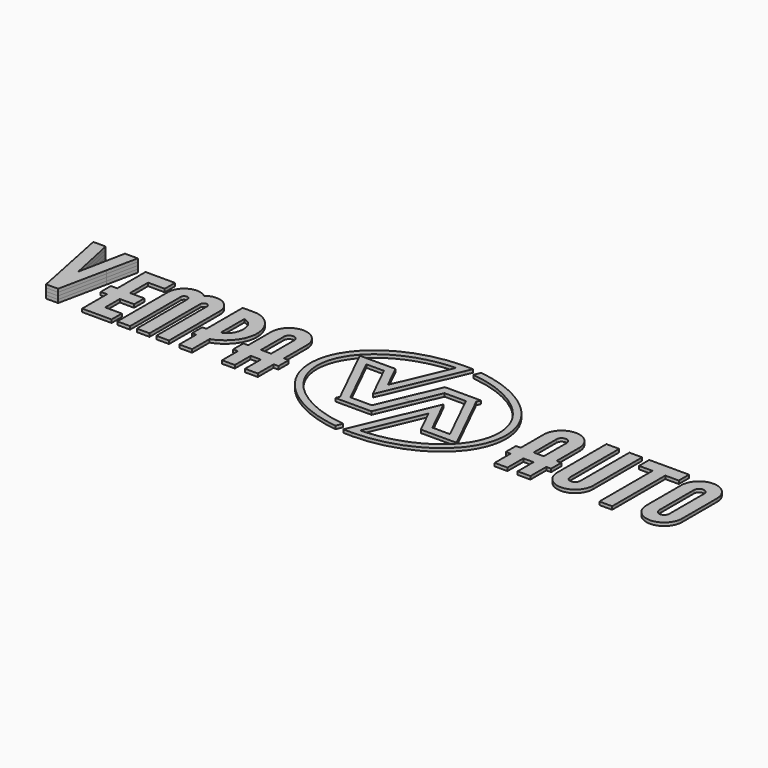
from build123d import *

# Parameters (mm, degrees)
F2_DEPTH  = 10
F3_DEPTH  = 10
F4_R      = 2.875
F5_DEPTH  = 10
F6_DEPTH  = 10
F8_DEPTH  = 10
F10_DEPTH = 10


with BuildPart() as f2:
    # F1 (on Top) → F2 (new body)
    with BuildSketch(Plane.XY):
        Polygon((-871.9276483553, 126.2843328033), (-909.6434648347, 126.2843328033), (-912.4845839702, 126.2843328033), (-942.3458830625, -21.8372228415), (-973.6101645308, 126.2843328033), (-1012.7642730078, 126.2843328033), (-962.1864434677, -123.7156671967), (-924.1331745426, -123.7452153663), (-892.265362448, 28.858947559), align=None)
    extrude(amount=F2_DEPTH)

    # F4 (on face) → F5 (intersect, through all)
    with BuildSketch(Plane.XY.offset(10)):
        Polygon((-892.265362448, 28.858947559), (-871.9276483553, 126.2843328033), (-912.4845839702, 126.2843328033), (-942.3458830625, -21.8372228415), (-973.6101645308, 126.2843328033), (-1012.7642730078, 126.2843328033), (-962.1864434677, -123.7156671967), (-924.1331745426, -123.7452153663), align=None)
        with Locations((-943.1209842713, -73.7304563551)):
            Circle(F4_R, mode=Mode.SUBTRACT)
        with Locations((-982.8611430602, 77.3622298186)):
            Circle(F4_R, mode=Mode.SUBTRACT)
        with Locations((-902.4234528526, 77.3394042513)):
            Circle(F4_R, mode=Mode.SUBTRACT)
    extrude(amount=-F5_DEPTH, mode=Mode.INTERSECT)


with BuildPart() as f2b:
    # F1 (on Top) → F2, piece 2 (new body)
    with BuildSketch(Plane.XY):
        Polygon((-806.9672375399, 14.303325146), (-806.9672375399, 50.9545219552), (-806.9672375399, 85.840435255), (-754.2754631449, 85.840435255), (-754.2754631449, 126.2843328033), (-847.3929545845, 126.2843328033), (-847.3929545845, 14.303325146), (-867.3995845235, 14.303325146), (-867.3995845235, -26.1284497144), (-847.3929545845, -26.1284497144), (-847.3929545845, -124.4851156467), (-754.2754631449, -124.4851156467), (-754.2754631449, -84.0465208923), (-806.9672375399, -84.0465208923), (-806.9672375399, -26.1284497144), (-761.5972173308, -26.1284497144), (-761.5972173308, 14.303325146), align=None)
    extrude(amount=F2_DEPTH)


with BuildPart() as f2c:
    # F1 (on Top) → F2, piece 3 (new body)
    with BuildSketch(Plane.XY):
        with BuildLine():
            add(Edge.make_bspline(
                [(-572.9711506984, 76.7791565073), (-572.9711506984, 104.9176014978), (-595.8531474245, 127.7950575082), (-624.0037151028, 127.7950575082)],
                knots=[0, 0, 0, 0, 1, 1, 1, 1], degree=3))
            add(Edge.make_bspline(
                [(-624.0037151028, 127.7950575082), (-635.1090638994, 127.7950575082), (-645.8932108615, 124.0765958838), (-654.8014459671, 117.2351802716)],
                knots=[0, 0, 0, 0, 1, 1, 1, 1], degree=3))
            add(Edge.make_bspline(
                [(-654.8014459671, 117.2351802716), (-663.7096775445, 124.0765958838), (-674.4938068659, 127.7950575082), (-685.615840235, 127.7950575082)],
                knots=[0, 0, 0, 0, 1, 1, 1, 1], degree=3))
            add(Edge.make_bspline(
                [(-685.615840235, 127.7950575082), (-713.7361011937, 127.7950575082), (-736.6196114917, 104.9176014978), (-736.6196114917, 76.7791565073)],
                knots=[0, 0, 0, 0, 1, 1, 1, 1], degree=3))
            Line((-736.6196114917, 76.7791565073), (-736.6196114917, -123.7274864645))
            Line((-736.6196114917, -123.7274864645), (-696.1863195312, -123.7274864645))
            Line((-696.1863195312, -123.7274864645), (-696.1863195312, 76.7791565073))
            add(Edge.make_bspline(
                [(-696.1863195312, 76.7791565073), (-696.1863195312, 82.6083770765), (-691.4329381163, 87.3496358035), (-685.615840235, 87.3496358035)],
                knots=[0, 0, 0, 0, 1, 1, 1, 1], degree=3))
            add(Edge.make_bspline(
                [(-685.615840235, 87.3496358035), (-679.7608642463, 87.3496358035), (-675.0256633351, 82.6083770765), (-675.0256633351, 76.7791565073)],
                knots=[0, 0, 0, 0, 1, 1, 1, 1], degree=3))
            Line((-675.0256633351, 76.7791565073), (-675.0256633351, -123.7274864645))
            Line((-675.0256633351, -123.7274864645), (-634.5757150272, -123.7274864645))
            Line((-634.5757150272, -123.7274864645), (-634.5757150272, 76.7791565073))
            add(Edge.make_bspline(
                [(-634.5757150272, 76.7791565073), (-634.5757150272, 82.6083770765), (-629.8283914281, 87.3496358035), (-624.0037151028, 87.3496358035)],
                knots=[0, 0, 0, 0, 1, 1, 1, 1], degree=3))
            add(Edge.make_bspline(
                [(-624.0037151028, 87.3496358035), (-618.1563175581, 87.3496358035), (-613.4029255588, 82.6083770765), (-613.4029255588, 76.7791565073)],
                knots=[0, 0, 0, 0, 1, 1, 1, 1], degree=3))
            Line((-613.4029255588, 76.7791565073), (-613.4029255588, -123.7274864645))
            Line((-613.4029255588, -123.7274864645), (-572.9711506984, -123.7274864645))
            Line((-572.9711506984, -123.7274864645), (-572.9711506984, 76.7791565073))
        make_face()
    extrude(amount=F2_DEPTH)


with BuildPart() as f2d:
    # F1 (on Top) → F2, piece 4 (new body)
    with BuildSketch(Plane.XY):
        with BuildLine():
            add(Edge.make_bspline(
                [(-426.3163697227, 37.2156250636), (-426.1860402437, 40.7264909505), (-426.2799946028, 44.2176592337), (-426.5815446994, 47.7103410888)],
                knots=[0, 0, 0, 0, 1, 1, 1, 1], degree=3))
            add(Edge.make_bspline(
                [(-426.5815446994, 47.7103410888), (-427.4164436682, 57.6368325813), (-429.8726992172, 67.4557405111), (-433.6138679485, 76.7018796644)],
                knots=[0, 0, 0, 0, 1, 1, 1, 1], degree=3))
            add(Edge.make_bspline(
                [(-433.6138679485, 76.7018796644), (-445.0253181419, 104.9176014978), (-473.3365220189, 125.6630768034), (-500.9188475239, 126.0600736622)],
                knots=[0, 0, 0, 0, 1, 1, 1, 1], degree=3))
            add(Edge.make_bspline(
                [(-500.9188475239, 126.0600736622), (-502.5295844036, 126.0843190379), (-504.1630425028, 126.0843190379), (-505.7661938823, 126.0903803819)],
                knots=[0, 0, 0, 0, 1, 1, 1, 1], degree=3))
            add(Edge.make_bspline(
                [(-505.7661938823, 126.0903803819), (-505.7722270011, 126.1494767211), (-505.7904322018, 126.2025081884), (-505.8025337208, 126.2616045276)],
                knots=[0, 0, 0, 0, 1, 1, 1, 1], degree=3))
            Line((-505.8025337208, 126.2616045276), (-515.1473160594, 126.2507788984))
            Line((-515.1473160594, 126.2507788984), (-521.4991564994, 126.2434204958))
            Line((-521.4991564994, 126.2434204958), (-539.9065901034, 126.2252399922))
            Line((-539.9065901034, 126.2252399922), (-539.9065901034, -16.9247399687))
            add(Edge.make_bspline(
                [(-539.9065901034, -16.9247399687), (-542.6295024478, -17.0671744949), (-545.335761973, -17.1565740257), (-548.0101976784, -17.209609021)],
                knots=[0, 0, 0, 0, 1, 1, 1, 1], degree=3))
            Line((-548.0101976784, -17.209609021), (-553.0121118353, -17.3156790117))
            Line((-553.0121118353, -17.3156790117), (-553.0121118353, -57.7368482843))
            Line((-553.0121118353, -57.7368482843), (-547.8086703411, -57.6307818218))
            add(Edge.make_bspline(
                [(-547.8086703411, -57.6307818218), (-545.1751610557, -57.61259779), (-542.5355480887, -57.5595627946), (-539.9065901034, -57.4944051114)],
                knots=[0, 0, 0, 0, 1, 1, 1, 1], degree=3))
            Line((-539.9065901034, -57.4944051114), (-539.9065901034, -124.4851156467))
            Line((-539.9065901034, -124.4851156467), (-499.4687468428, -124.4851156467))
            Line((-499.4687468428, -124.4851156467), (-499.4687468428, -54.7184436591))
            add(Edge.make_bspline(
                [(-499.4687468428, -54.7184436591), (-494.3138172689, -53.3622832246), (-489.3119383934, -51.4272926695), (-484.7009773921, -49.046810976)],
                knots=[0, 0, 0, 0, 1, 1, 1, 1], degree=3))
            add(Edge.make_bspline(
                [(-484.7009773921, -49.046810976), (-467.7133730309, -40.2870717405), (-452.2652371285, -26.5133274135), (-441.8357034835, -10.4560793678)],
                knots=[0, 0, 0, 0, 1, 1, 1, 1], degree=3))
            add(Edge.make_bspline(
                [(-441.8357034835, -10.4560793678), (-438.8824389008, -5.9163515062), (-436.1595265564, -1.020532037), (-434.0396791239, 3.9692276788)],
                knots=[0, 0, 0, 0, 1, 1, 1, 1], degree=3))
            add(Edge.make_bspline(
                [(-434.0396791239, 3.9692276788), (-429.583285921, 14.4866719797), (-426.6648793582, 25.757204747), (-426.3163697227, 37.2156250636)],
                knots=[0, 0, 0, 0, 1, 1, 1, 1], degree=3))
        make_face()
        with BuildLine():
            add(Edge.make_bspline(
                [(-470.6666023322, 59.1520980019), (-467.2345339165, 50.6757142468), (-466.7011850442, 41.6250446151), (-467.4769876738, 32.6046781749)],
                knots=[0, 0, 0, 0, 1, 1, 1, 1], degree=3))
            add(Edge.make_bspline(
                [(-467.4769876738, 32.6046781749), (-467.8254973093, 28.6392361899), (-468.5058637611, 24.7025802965), (-469.6013864065, 20.8795693095)],
                knots=[0, 0, 0, 0, 1, 1, 1, 1], degree=3))
            add(Edge.make_bspline(
                [(-469.6013864065, 20.8795693095), (-470.6378127126, 17.2399086844), (-472.0227839356, 13.7063109937), (-473.8092574518, 10.3787954686)],
                knots=[0, 0, 0, 0, 1, 1, 1, 1], degree=3))
            add(Edge.make_bspline(
                [(-473.8092574518, 10.3787954686), (-476.7928287541, 4.8738426873), (-481.208295537, -0.0386437137), (-486.1510780732, -3.8268002089)],
                knots=[0, 0, 0, 0, 1, 1, 1, 1], degree=3))
            add(Edge.make_bspline(
                [(-486.1510780732, -3.8268002089), (-488.2527555864, -5.4299515884), (-490.4771770784, -6.9103625173), (-492.7743135288, -8.2180357286)],
                knots=[0, 0, 0, 0, 1, 1, 1, 1], degree=3))
            add(Edge.make_bspline(
                [(-492.7743135288, -8.2180357286), (-492.8637165878, -8.254400264), (-493.0106988859, -8.3301635351), (-493.2182946235, -8.419566594)],
                knots=[0, 0, 0, 0, 1, 1, 1, 1], degree=3))
            Line((-493.2182946235, -8.419566594), (-499.4687468428, -10.8227730351))
            Line((-499.4687468428, -10.8227730351), (-499.4687468428, -7.1528056903))
            Line((-499.4687468428, -7.1528056903), (-499.4687468428, 82.0462138877))
            add(Edge.make_bspline(
                [(-499.4687468428, 82.0462138877), (-488.0694334498, 80.856733355), (-475.4669538704, 71.048431013), (-470.6666023322, 59.1520980019)],
                knots=[0, 0, 0, 0, 1, 1, 1, 1], degree=3))
        make_face(mode=Mode.SUBTRACT)
    extrude(amount=F2_DEPTH)


with BuildPart() as f2e:
    # F1 (on Top) → F2, piece 5 (new body)
    with BuildSketch(Plane.XY):
        with BuildLine():
            Line((-276.262861251, -21.2038441537), (-291.4094117754, -21.2038441537))
            Line((-291.4094117754, -21.2038441537), (-291.4094117754, 69.7119681822))
            add(Edge.make_bspline(
                [(-291.4094117754, 69.7119681822), (-291.4094117754, 100.8991245175), (-316.7794878702, 126.2843328033), (-347.9666195086, 126.2843328033)],
                knots=[0, 0, 0, 0, 1, 1, 1, 1], degree=3))
            add(Edge.make_bspline(
                [(-347.9666195086, 126.2843328033), (-379.1537864284, 126.2843328033), (-404.528378542, 100.8991245175), (-404.528378542, 69.7119681822)],
                knots=[0, 0, 0, 0, 1, 1, 1, 1], degree=3))
            Line((-404.528378542, 69.7119681822), (-404.528378542, -21.2038441537))
            Line((-404.528378542, -21.2038441537), (-419.681032748, -21.2038441537))
            Line((-419.681032748, -21.2038441537), (-419.681032748, -61.6250134263))
            Line((-419.681032748, -61.6250134263), (-404.528378542, -61.6250134263))
            Line((-404.528378542, -61.6250134263), (-404.528378542, -124.4851156467))
            Line((-404.528378542, -124.4851156467), (-364.0829850624, -124.4851156467))
            Line((-364.0829850624, -124.4851156467), (-364.0829850624, -61.6250134263))
            Line((-364.0829850624, -61.6250134263), (-331.8427037359, -61.6250134263))
            Line((-331.8427037359, -61.6250134263), (-331.8427037359, -124.4851156467))
            Line((-331.8427037359, -124.4851156467), (-291.4094117754, -124.4851156467))
            Line((-291.4094117754, -124.4851156467), (-291.4094117754, -61.6250134263))
            Line((-291.4094117754, -61.6250134263), (-276.262861251, -61.6250134263))
            Line((-276.262861251, -61.6250134263), (-276.262861251, -21.2038441537))
        make_face()
        with BuildLine():
            Line((-331.8427037359, 69.7119681822), (-331.8427037359, -21.2038441537))
            Line((-331.8427037359, -21.2038441537), (-364.0829850624, -21.2038441537))
            Line((-364.0829850624, -21.2038441537), (-364.0829850624, 69.7119681822))
            add(Edge.make_bspline(
                [(-364.0829850624, 69.7119681822), (-364.0829850624, 78.6141419438), (-356.8566846949, 85.840435255), (-347.9666195086, 85.840435255)],
                knots=[0, 0, 0, 0, 1, 1, 1, 1], degree=3))
            add(Edge.make_bspline(
                [(-347.9666195086, 85.840435255), (-339.0750725036, 85.840435255), (-331.8427037359, 78.6141419438), (-331.8427037359, 69.7119681822)],
                knots=[0, 0, 0, 0, 1, 1, 1, 1], degree=3))
        make_face(mode=Mode.SUBTRACT)
    extrude(amount=F2_DEPTH)


with BuildPart() as f2f:
    # F1 (on Top) → F2, piece 6 (new body)
    with BuildSketch(Plane.XY):
        with BuildLine():
            Line((68.305066043, -3.4298033501), (35.0525967298, -81.424509814))
            Line((35.0525967298, -81.424509814), (-32.702397059, -81.424509814))
            Line((-32.702397059, -81.424509814), (-112.7280136109, 81.4491997354))
            Line((-112.7280136109, 81.4491997354), (-56.9708821082, 81.4491997354))
            Line((-56.9708821082, 81.4491997354), (-0.7394275097, -32.9956242742))
            Line((-0.7394275097, -32.9956242742), (100.5937887271, 204.6355754205))
            Line((100.5937887271, 204.6355754205), (109.5308134523, 225.588632351))
            add(Edge.make_bspline(
                [(109.5308134523, 225.588632351), (101.3923478574, 226.055334665), (93.1644792036, 226.3629531618), (84.8608261099, 226.3629531618)],
                knots=[0, 0, 0, 0, 1, 1, 1, 1], degree=3))
            add(Edge.make_bspline(
                [(84.8608261099, 226.3629531618), (83.8425697231, 226.3629531618), (82.8955111945, 226.3220267418), (81.9015284084, 226.3038568226)],
                knots=[0, 0, 0, 0, 1, 1, 1, 1], degree=3))
            add(Edge.make_bspline(
                [(81.9015284084, 226.3038568226), (-87.6185964741, 225.1204129369), (-225.034802628, 124.0947763874), (-225.034802628, -0.008336994)],
                knots=[0, 0, 0, 0, 1, 1, 1, 1], degree=3))
            add(Edge.make_bspline(
                [(-225.034802628, -0.008336994), (-225.034802628, -111.8363045373), (-113.3780733431, -204.882880017), (32.7433234791, -223.048314288)],
                knots=[0, 0, 0, 0, 1, 1, 1, 1], degree=3))
            Line((32.7433234791, -223.048314288), (41.4621680477, -202.6040750747))
            add(Edge.make_bspline(
                [(41.4621680477, -202.6040750747), (-97.0890053529, -187.6823668929), (-203.6135262834, -102.5078856391), (-203.6135262834, -0.008336994)],
                knots=[0, 0, 0, 0, 1, 1, 1, 1], degree=3))
            add(Edge.make_bspline(
                [(-203.6135262834, -0.008336994), (-203.6135262834, 110.1149569511), (-80.7347373419, 200.1716319987), (72.685674806, 204.7234613794)],
                knots=[0, 0, 0, 0, 1, 1, 1, 1], degree=3))
            Line((72.685674806, 204.7234613794), (-2.3971592097, 28.633174846))
            Line((-2.3971592097, 28.633174846), (-40.9772605331, 107.1495837931))
            Line((-40.9772605331, 107.1495837931), (-153.9825859212, 107.1495837931))
            Line((-153.9825859212, 107.1495837931), (-54.8873745141, -94.5763913011))
            Line((-54.8873745141, -94.5763913011), (-60.1074688275, -107.1424710636))
            Line((-60.1074688275, -107.1424710636), (43.6820382396, -107.1424710636))
            Line((43.6820382396, -107.1424710636), (54.3070661031, -107.0595880067))
            Line((54.3070661031, -107.0595880067), (58.9952933629, -96.1509012428))
            Line((58.9952933629, -96.1509012428), (98.5224532149, -3.4298033501))
            Line((98.5224532149, -3.4298033501), (68.305066043, -3.4298033501))
        make_face()
    extrude(amount=F2_DEPTH)


with BuildPart() as f3:
    # F1 (on Top) → F3 (new body)
    with BuildSketch(Plane.XY):
        with BuildLine():
            Line((110.7733536772, 96.1457431026), (68.305066043, -3.4298033501))
            Line((68.305066043, -3.4298033501), (98.5224532149, -3.4298033501))
            Line((98.5224532149, -3.4298033501), (134.6872254093, 81.4491997354))
            Line((134.6872254093, 81.4491997354), (202.4710440992, 81.4491997354))
            Line((202.4710440992, 81.4491997354), (282.5133134703, -81.424509814))
            Line((282.5133134703, -81.424509814), (226.7561819675, -81.424509814))
            Line((226.7561819675, -81.424509814), (170.5262444691, 33.0016785618))
            Line((170.5262444691, 33.0016785618), (69.1642033313, -204.6283159203))
            Line((69.1642033313, -204.6283159203), (60.2559682257, -225.5875640303))
            add(Edge.make_bspline(
                [(60.2559682257, -225.5875640303), (68.3641623823, -226.0670025757), (76.5738611169, -226.3629531618), (84.8608261099, -226.3629531618)],
                knots=[0, 0, 0, 0, 1, 1, 1, 1], degree=3))
            add(Edge.make_bspline(
                [(84.8608261099, -226.3629531618), (85.8972524161, -226.3629531618), (86.8609637638, -226.3215201009), (87.8671186317, -226.3215201009)],
                knots=[0, 0, 0, 0, 1, 1, 1, 1], degree=3))
            add(Edge.make_bspline(
                [(87.8671186317, -226.3215201009), (257.3584186133, -225.1258829646), (394.797381268, -124.082664284), (394.797381268, -0.008336994)],
                knots=[0, 0, 0, 0, 1, 1, 1, 1], degree=3))
            add(Edge.make_bspline(
                [(394.797381268, -0.008336994), (394.797381268, 111.6241574997), (283.5785646774, 204.5401039613), (137.8647385487, 222.9778442849)],
                knots=[0, 0, 0, 0, 1, 1, 1, 1], degree=3))
            Line((137.8647385487, 222.9778442849), (129.1231727606, 202.5217963882))
            add(Edge.make_bspline(
                [(129.1231727606, 202.5217963882), (267.2849101058, 187.3449038626), (373.3700365232, 102.3189255353), (373.3700365232, -0.008336994)],
                knots=[0, 0, 0, 0, 1, 1, 1, 1], degree=3))
            add(Edge.make_bspline(
                [(373.3700365232, -0.008336994), (373.3700365232, -110.1078406934), (250.5033843821, -200.1654101244), (97.0723172524, -204.7230196563)],
                knots=[0, 0, 0, 0, 1, 1, 1, 1], degree=3))
            Line((97.0723172524, -204.7230196563), (172.153634168, -28.6331819023))
            Line((172.153634168, -28.6331819023), (210.7761790115, -107.1424710636))
            Line((210.7761790115, -107.1424710636), (323.7815043996, -107.1424710636))
            Line((323.7815043996, -107.1424710636), (224.6560215543, 94.5653199988))
            Line((224.6560215543, 94.5653199988), (229.8639790672, 107.1495837931))
            Line((229.8639790672, 107.1495837931), (126.1047787198, 107.1495837931))
            Line((126.1047787198, 107.1495837931), (115.420654517, 107.0662456062))
            Line((115.420654517, 107.0662456062), (110.7733536772, 96.1457431026))
        make_face()
    extrude(amount=F3_DEPTH)


with BuildPart() as f3b:
    # F1 (on Top) → F3, piece 2 (new body)
    with BuildSketch(Plane.XY):
        with BuildLine():
            Line((577.7775706368, -29.046849221), (577.7775706368, -7.9286189042))
            Line((577.7775706368, -7.9286189042), (577.7775706368, 61.8629052991))
            add(Edge.make_bspline(
                [(577.7775706368, 61.8629052991), (577.7775706368, 93.0500581063), (552.3817744039, 118.4246608043), (521.1976416842, 118.4246608043)],
                knots=[0, 0, 0, 0, 1, 1, 1, 1], degree=3))
            add(Edge.make_bspline(
                [(521.1976416842, 118.4246608043), (490.0331959838, 118.4246608043), (464.6419510511, 93.0500581063), (464.6419510511, 61.8629052991)],
                knots=[0, 0, 0, 0, 1, 1, 1, 1], degree=3))
            Line((464.6419510511, 61.8629052991), (464.6419510511, -29.046849221))
            Line((464.6419510511, -29.046849221), (449.4999165454, -29.046849221))
            Line((449.4999165454, -29.046849221), (449.4999165454, -69.4801411815))
            Line((449.4999165454, -69.4801411815), (464.6419510511, -69.4801411815))
            Line((464.6419510511, -69.4801411815), (464.6419510511, -132.3337269279))
            Line((464.6419510511, -132.3337269279), (505.1206854504, -132.3337269279))
            Line((505.1206854504, -132.3337269279), (505.1206854504, -69.4801411815))
            Line((505.1206854504, -69.4801411815), (537.3503470765, -69.4801411815))
            Line((537.3503470765, -69.4801411815), (537.3503470765, -132.3337269279))
            Line((537.3503470765, -132.3337269279), (577.7775706368, -132.3337269279))
            Line((577.7775706368, -132.3337269279), (577.7775706368, -69.4801411815))
            Line((577.7775706368, -69.4801411815), (592.9302248428, -69.4801411815))
            Line((592.9302248428, -69.4801411815), (592.9302248428, -29.046849221))
            Line((592.9302248428, -29.046849221), (577.7775706368, -29.046849221))
        make_face()
        with BuildLine():
            Line((537.3503470765, 61.8629052991), (537.3503470765, -29.046849221))
            Line((537.3503470765, -29.046849221), (505.1206854504, -29.046849221))
            Line((505.1206854504, -29.046849221), (505.1206854504, 61.8629052991))
            add(Edge.make_bspline(
                [(505.1206854504, 61.8629052991), (505.1206854504, 70.7590177168), (512.3333319174, 77.9913688438), (521.1976416842, 77.9913688438)],
                knots=[0, 0, 0, 0, 1, 1, 1, 1], degree=3))
            add(Edge.make_bspline(
                [(521.1976416842, 77.9913688438), (530.1377006095, 77.9913688438), (537.3503470765, 70.7590177168), (537.3503470765, 61.8629052991)],
                knots=[0, 0, 0, 0, 1, 1, 1, 1], degree=3))
        make_face(mode=Mode.SUBTRACT)
    extrude(amount=F3_DEPTH)


with BuildPart() as f3c:
    # F1 (on Top) → F3, piece 3 (new body)
    with BuildSketch(Plane.XY):
        with BuildLine():
            Line((690.4525563087, 118.4246608043), (690.4525563087, 22.2114878965))
            Line((690.4525563087, 22.2114878965), (690.4525563087, -75.7777293466))
            add(Edge.make_bspline(
                [(690.4525563087, -75.7777293466), (690.4525563087, -84.6621742065), (683.1944674028, -91.9010418074), (674.3150219169, -91.9010418074)],
                knots=[0, 0, 0, 0, 1, 1, 1, 1], degree=3))
            add(Edge.make_bspline(
                [(674.3150219169, -91.9010418074), (665.4052697112, -91.9010418074), (658.1926232442, -84.6621742065), (658.1926232442, -75.7777293466)],
                knots=[0, 0, 0, 0, 1, 1, 1, 1], degree=3))
            Line((658.1926232442, -75.7777293466), (658.1926232442, 118.4246608043))
            Line((658.1926232442, 118.4246608043), (617.7653644026, 118.4246608043))
            Line((617.7653644026, 118.4246608043), (617.7653644026, -75.7777293466))
            add(Edge.make_bspline(
                [(617.7653644026, -75.7777293466), (617.7653644026, -106.9589725199), (643.1460601977, -132.3337269279), (674.3150219169, -132.3337269279)],
                knots=[0, 0, 0, 0, 1, 1, 1, 1], degree=3))
            add(Edge.make_bspline(
                [(674.3150219169, -132.3337269279), (705.483983636, -132.3337269279), (730.8798151503, -106.9589725199), (730.8798151503, -75.7777293466)],
                knots=[0, 0, 0, 0, 1, 1, 1, 1], degree=3))
            Line((730.8798151503, -75.7777293466), (730.8798151503, 118.4246608043))
            Line((730.8798151503, 118.4246608043), (690.4525563087, 118.4246608043))
        make_face()
    extrude(amount=F3_DEPTH)


with BuildPart() as f3d:
    # F1 (on Top) → F3, piece 4 (new body)
    with BuildSketch(Plane.XY):
        Polygon((753.336000701, 118.4246608043), (753.336000701, 77.9913688438), (796.0058156725, 77.9913688438), (796.0058156725, -132.3337269279), (836.478516953, -132.3337269279), (836.478516953, 77.9913688438), (879.0877184852, 77.9913688438), (879.0877184852, 118.4246608043), align=None)
    extrude(amount=F3_DEPTH)


with BuildPart() as f3e:
    # F1 (on Top) → F3, piece 5 (new body)
    with BuildSketch(Plane.XY):
        with BuildLine():
            add(Edge.make_bspline(
                [(1012.7642730078, 61.8629052991), (1012.7642730078, 93.0500581063), (987.3836124941, 118.4246608043), (956.1843440553, 118.4246608043)],
                knots=[0, 0, 0, 0, 1, 1, 1, 1], degree=3))
            add(Edge.make_bspline(
                [(956.1843440553, 118.4246608043), (925.0153823361, 118.4246608043), (899.6347218223, 93.0500581063), (899.6347218223, 61.8629052991)],
                knots=[0, 0, 0, 0, 1, 1, 1, 1], degree=3))
            Line((899.6347218223, 61.8629052991), (899.6347218223, -75.7777293466))
            add(Edge.make_bspline(
                [(899.6347218223, -75.7777293466), (899.6347218223, -106.9589725199), (925.0153823361, -132.3337269279), (956.1843440553, -132.3337269279)],
                knots=[0, 0, 0, 0, 1, 1, 1, 1], degree=3))
            add(Edge.make_bspline(
                [(956.1843440553, -132.3337269279), (987.3836124941, -132.3337269279), (1012.7642730078, -106.9589725199), (1012.7642730078, -75.7777293466)],
                knots=[0, 0, 0, 0, 1, 1, 1, 1], degree=3))
            Line((1012.7642730078, -75.7777293466), (1012.7642730078, 61.8629052991))
        make_face()
        with BuildLine():
            Line((972.3219137284, 61.8629052991), (972.3219137284, -26.9815432995))
            Line((972.3219137284, -26.9815432995), (972.3219137284, -75.7777293466))
            add(Edge.make_bspline(
                [(972.3219137284, -75.7777293466), (972.3219137284, -84.6621742065), (965.0940962609, -91.9010418074), (956.1843440553, -91.9010418074)],
                knots=[0, 0, 0, 0, 1, 1, 1, 1], degree=3))
            add(Edge.make_bspline(
                [(956.1843440553, -91.9010418074), (947.2897275688, -91.9010418074), (940.0770811018, -84.6621742065), (940.0770811018, -75.7777293466)],
                knots=[0, 0, 0, 0, 1, 1, 1, 1], degree=3))
            Line((940.0770811018, -75.7777293466), (940.0770811018, 61.8629052991))
            add(Edge.make_bspline(
                [(940.0770811018, 61.8629052991), (940.0770811018, 70.7590177168), (947.2897275688, 77.9913688438), (956.1843440553, 77.9913688438)],
                knots=[0, 0, 0, 0, 1, 1, 1, 1], degree=3))
            add(Edge.make_bspline(
                [(956.1843440553, 77.9913688438), (965.0940962609, 77.9913688438), (972.3219137284, 70.7590177168), (972.3219137284, 61.8629052991)],
                knots=[0, 0, 0, 0, 1, 1, 1, 1], degree=3))
        make_face(mode=Mode.SUBTRACT)
    extrude(amount=F3_DEPTH)


with BuildPart() as f6:
    # F6 (new): a face of the model
    f6_faces = [f2.part.faces().sort_by_distance(p)[0] for p in [
        (-892.2061161628, 123.4146685407, 10),
    ]]
    extrude(f6_faces, amount=F6_DEPTH)


with BuildPart() as f8:
    # F7 (on face) → F8 (new body)
    with BuildSketch(Plane.XY.offset(20)):
        Polygon((-973.6101645308, 126.2843328033), (-1012.7642730078, 126.2843328033), (-962.1864434677, -123.7156671967), (-924.1331745426, -123.7452153663), (-892.265362448, 28.858947559), (-871.9276483553, 126.2843328033), (-912.4845839702, 126.2843328033), (-942.3458830625, -21.8372228415), align=None)
        Polygon((-940.3497029792, -68.9304563551), (-937.5784216871, -73.7304563551), (-940.3497029792, -78.5304563551), (-945.8922655634, -78.5304563551), (-948.6635468556, -73.7304563551), (-945.8922655634, -68.9304563551), align=None, mode=Mode.SUBTRACT)
        Polygon((-980.0898617681, 82.1622298186), (-977.318580476, 77.3622298186), (-980.0898617681, 72.5622298186), (-985.6324243524, 72.5622298186), (-988.4037056445, 77.3622298186), (-985.6324243524, 82.1622298186), align=None, mode=Mode.SUBTRACT)
        Polygon((-899.6521715605, 82.1394042513), (-896.8808902684, 77.3394042513), (-899.6521715605, 72.5394042513), (-905.1947341447, 72.5394042513), (-907.9660154368, 77.3394042513), (-905.1947341447, 82.1394042513), align=None, mode=Mode.SUBTRACT)
    extrude(amount=F8_DEPTH)


with BuildPart() as f10:
    # F9 (on face) → F10 (new body)
    with BuildSketch(Plane.XY.offset(30)):
        Polygon((-973.6101645308, 126.2843328033), (-1012.7642730078, 126.2843328033), (-962.1864434677, -123.7156671967), (-924.1331745426, -123.7452153663), (-892.265362448, 28.858947559), (-871.9276483553, 126.2843328033), (-912.4845839702, 126.2843328033), (-942.3458830625, -21.8372228415), align=None)
        Polygon((-945.8922655634, -78.5304563551), (-948.6635468556, -73.7304563551), (-945.8922655634, -68.9304563551), (-940.3497029792, -68.9304563551), (-937.5784216871, -73.7304563551), (-940.3497029792, -78.5304563551), align=None, mode=Mode.SUBTRACT)
        Polygon((-985.6324243524, 72.5622298186), (-988.4037056445, 77.3622298186), (-985.6324243524, 82.1622298186), (-980.0898617681, 82.1622298186), (-977.318580476, 77.3622298186), (-980.0898617681, 72.5622298186), align=None, mode=Mode.SUBTRACT)
        Polygon((-905.1947341447, 72.5394042513), (-907.9660154368, 77.3394042513), (-905.1947341447, 82.1394042513), (-899.6521715605, 82.1394042513), (-896.8808902684, 77.3394042513), (-899.6521715605, 72.5394042513), align=None, mode=Mode.SUBTRACT)
        Polygon((-985.6324243524, 82.1622298186), (-988.4037056445, 77.3622298186), (-985.6324243524, 72.5622298186), (-980.0898617681, 72.5622298186), (-977.318580476, 77.3622298186), (-980.0898617681, 82.1622298186), align=None)
        Polygon((-905.1947341447, 82.1394042513), (-907.9660154368, 77.3394042513), (-905.1947341447, 72.5394042513), (-899.6521715605, 72.5394042513), (-896.8808902684, 77.3394042513), (-899.6521715605, 82.1394042513), align=None)
        Polygon((-945.8922655634, -68.9304563551), (-948.6635468556, -73.7304563551), (-945.8922655634, -78.5304563551), (-940.3497029792, -78.5304563551), (-937.5784216871, -73.7304563551), (-940.3497029792, -68.9304563551), align=None)
    extrude(amount=F10_DEPTH)


solid = Compound([f2.part, f2b.part, f2c.part, f2d.part, f2e.part, f2f.part, f3.part, f3b.part, f3c.part, f3d.part, f3e.part, f6.part, f8.part, f10.part])
